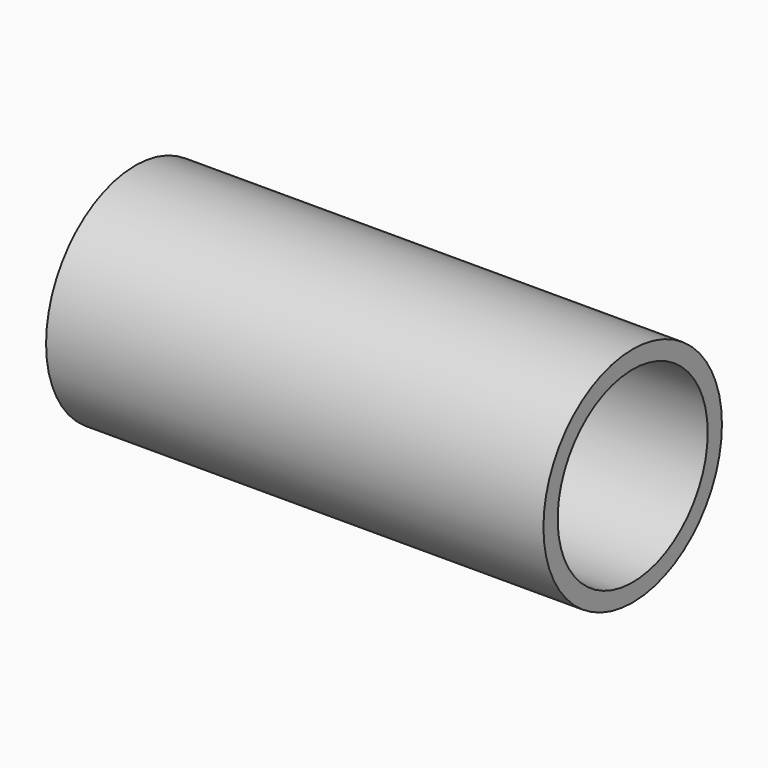
from build123d import *

# Parameters (mm, degrees)
F0_R     = 39.878
F0_R_2   = 33.528
F1_DEPTH = 177.8


with BuildPart() as f1:
    # F0 (on Right) → F1 (new body)
    with BuildSketch(Plane.YZ):
        Circle(F0_R)
        Circle(F0_R_2, mode=Mode.SUBTRACT)
        Circle(F0_R)
        Circle(F0_R_2, mode=Mode.SUBTRACT)
    extrude(amount=F1_DEPTH)


solid = f1.part
